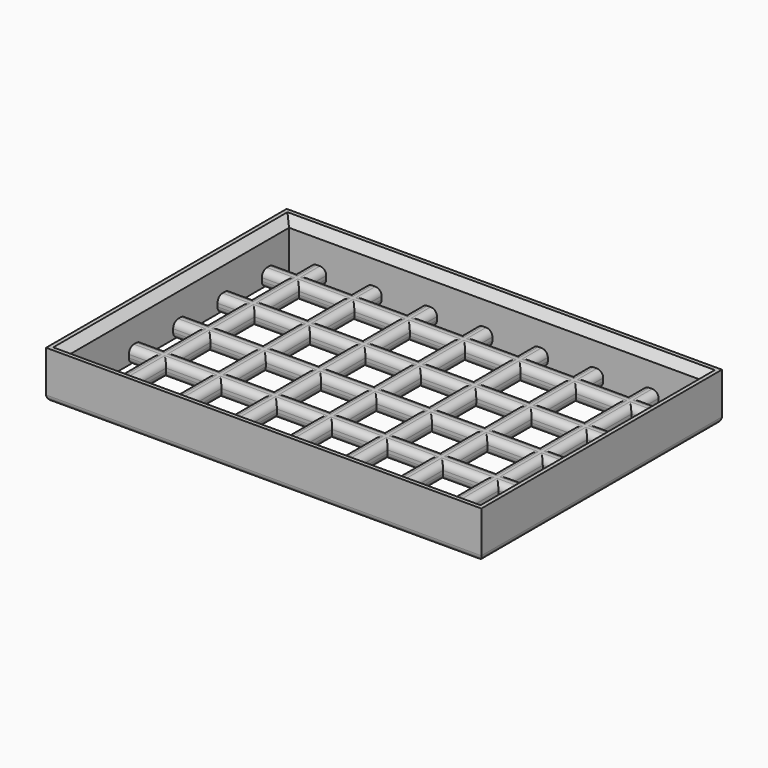
from build123d import *

# Parameters (mm, degrees)
F0_W     = 55
F0_H     = 38
F1_DEPTH = 2
F2_W     = 5
F2_H     = 5
F2_W_2   = 4.15
F3_DEPTH = 2.001
F5_R     = 0.8
F4_W     = 55
F4_H     = 38
F4_W_2   = 52
F4_H_2   = 35
F6_DEPTH = 6
F7_R     = 0.75
F8_SIZE  = 1


with BuildPart() as f1:
    # F0 (on Top) → F1 (new body)
    with BuildSketch(Plane.XY):
        with Locations((27.5, 19)):
            Rectangle(F0_W, F0_H)
    extrude(amount=-F1_DEPTH)

    # F2 (on face) → F3 (cut, through all)
    with BuildSketch(Plane.XY):
        with Locations((1.7, 36.7)):
            Rectangle(F2_W, F2_H)
        with Locations((1.7, 29.7)):
            Rectangle(F2_W, F2_H)
        with Locations((1.7, 22.7)):
            Rectangle(F2_W, F2_H)
        with Locations((1.7, 15.7)):
            Rectangle(F2_W, F2_H)
        with Locations((1.7, 8.7)):
            Rectangle(F2_W, F2_H)
        with Locations((1.7, 1.7)):
            Rectangle(F2_W, F2_H)
        with Locations((8.7, 36.7)):
            Rectangle(F2_W, F2_H)
        with Locations((8.7, 29.7)):
            Rectangle(F2_W, F2_H)
        with Locations((8.7, 22.7)):
            Rectangle(F2_W, F2_H)
        with Locations((8.7, 15.7)):
            Rectangle(F2_W, F2_H)
        with Locations((8.7, 8.7)):
            Rectangle(F2_W, F2_H)
        with Locations((8.7, 1.7)):
            Rectangle(F2_W, F2_H)
        with Locations((15.7, 36.7)):
            Rectangle(F2_W, F2_H)
        with Locations((15.7, 29.7)):
            Rectangle(F2_W, F2_H)
        with Locations((15.7, 22.7)):
            Rectangle(F2_W, F2_H)
        with Locations((15.7, 15.7)):
            Rectangle(F2_W, F2_H)
        with Locations((15.7, 8.7)):
            Rectangle(F2_W, F2_H)
        with Locations((15.7, 1.7)):
            Rectangle(F2_W, F2_H)
        with Locations((22.7, 36.7)):
            Rectangle(F2_W, F2_H)
        with Locations((22.7, 29.7)):
            Rectangle(F2_W, F2_H)
        with Locations((22.7, 22.7)):
            Rectangle(F2_W, F2_H)
        with Locations((22.7, 15.7)):
            Rectangle(F2_W, F2_H)
        with Locations((22.7, 8.7)):
            Rectangle(F2_W, F2_H)
        with Locations((22.7, 1.7)):
            Rectangle(F2_W, F2_H)
        with Locations((29.7, 36.7)):
            Rectangle(F2_W, F2_H)
        with Locations((29.7, 29.7)):
            Rectangle(F2_W, F2_H)
        with Locations((29.7, 22.7)):
            Rectangle(F2_W, F2_H)
        with Locations((29.7, 15.7)):
            Rectangle(F2_W, F2_H)
        with Locations((29.7, 8.7)):
            Rectangle(F2_W, F2_H)
        with Locations((29.7, 1.7)):
            Rectangle(F2_W, F2_H)
        with Locations((36.7, 36.7)):
            Rectangle(F2_W, F2_H)
        with Locations((36.7, 29.7)):
            Rectangle(F2_W, F2_H)
        with Locations((36.7, 22.7)):
            Rectangle(F2_W, F2_H)
        with Locations((36.7, 15.7)):
            Rectangle(F2_W, F2_H)
        with Locations((36.7, 8.7)):
            Rectangle(F2_W, F2_H)
        with Locations((36.7, 1.7)):
            Rectangle(F2_W, F2_H)
        with Locations((43.7, 36.7)):
            Rectangle(F2_W, F2_H)
        with Locations((43.7, 29.7)):
            Rectangle(F2_W, F2_H)
        with Locations((43.7, 22.7)):
            Rectangle(F2_W, F2_H)
        with Locations((43.7, 15.7)):
            Rectangle(F2_W, F2_H)
        with Locations((43.7, 8.7)):
            Rectangle(F2_W, F2_H)
        with Locations((43.7, 1.7)):
            Rectangle(F2_W, F2_H)
        with Locations((50.7, 36.7)):
            Rectangle(F2_W, F2_H)
        with Locations((55.275, 36.7)):
            Rectangle(F2_W_2, F2_H)
        with Locations((50.7, 29.7)):
            Rectangle(F2_W, F2_H)
        with Locations((55.275, 29.7)):
            Rectangle(F2_W_2, F2_H)
        with Locations((50.7, 22.7)):
            Rectangle(F2_W, F2_H)
        with Locations((55.275, 22.7)):
            Rectangle(F2_W_2, F2_H)
        with Locations((50.7, 15.7)):
            Rectangle(F2_W, F2_H)
        with Locations((55.275, 15.7)):
            Rectangle(F2_W_2, F2_H)
        with Locations((50.7, 8.7)):
            Rectangle(F2_W, F2_H)
        with Locations((55.275, 8.7)):
            Rectangle(F2_W_2, F2_H)
        with Locations((50.7, 1.7)):
            Rectangle(F2_W, F2_H)
        with Locations((55.275, 1.7)):
            Rectangle(F2_W_2, F2_H)
    extrude(amount=-F3_DEPTH, mode=Mode.SUBTRACT)

    # F5
    f5_edges = [f1.edges().sort_by_distance(p)[0] for p in [
        (48.2, 36.1, 0),
        (51.6, 34.2, 0),
        (55, 33.2, 0),
        (51.6, 32.2, 0),
        (48.2, 29.7, 0),
        (51.6, 27.2, 0),
        (55, 26.2, 0),
        (51.6, 25.2, 0),
        (48.2, 22.7, 0),
        (51.6, 20.2, 0),
        (55, 19.2, 0),
        (51.6, 18.2, 0),
        (48.2, 15.7, 0),
        (51.6, 13.2, 0),
        (55, 12.2, 0),
        (51.6, 11.2, 0),
        (48.2, 8.7, 0),
        (51.6, 6.2, 0),
        (55, 5.2, 0),
        (51.6, 4.2, 0),
        (48.2, 2.1, 0),
        (47.2, 0, 0),
        (46.2, 2.1, 0),
        (43.7, 4.2, 0),
        (41.2, 2.1, 0),
        (40.2, 0, 0),
        (39.2, 2.1, 0),
        (36.7, 4.2, 0),
        (34.2, 2.1, 0),
        (33.2, 0, 0),
        (32.2, 2.1, 0),
        (29.7, 4.2, 0),
        (27.2, 2.1, 0),
        (26.2, 0, 0),
        (25.2, 2.1, 0),
        (22.7, 4.2, 0),
        (20.2, 2.1, 0),
        (19.2, 0, 0),
        (18.2, 2.1, 0),
        (15.7, 4.2, 0),
        (13.2, 2.1, 0),
        (12.2, 0, 0),
        (11.2, 2.1, 0),
        (8.7, 4.2, 0),
        (6.2, 2.1, 0),
        (5.2, 0, 0),
        (4.2, 2.1, 0),
        (2.1, 4.2, 0),
        (0, 5.2, 0),
        (2.1, 6.2, 0),
        (4.2, 8.7, 0),
        (2.1, 11.2, 0),
        (0, 12.2, 0),
        (2.1, 13.2, 0),
        (4.2, 15.7, 0),
        (2.1, 18.2, 0),
        (0, 19.2, 0),
        (2.1, 20.2, 0),
        (4.2, 22.7, 0),
        (2.1, 25.2, 0),
        (0, 26.2, 0),
        (2.1, 27.2, 0),
        (4.2, 29.7, 0),
        (2.1, 32.2, 0),
        (0, 33.2, 0),
        (2.1, 34.2, 0),
        (4.2, 36.1, 0),
        (5.2, 38, 0),
        (6.2, 36.1, 0),
        (8.7, 34.2, 0),
        (11.2, 36.1, 0),
        (12.2, 38, 0),
        (13.2, 36.1, 0),
        (15.7, 34.2, 0),
        (18.2, 36.1, 0),
        (19.2, 38, 0),
        (20.2, 36.1, 0),
        (22.7, 34.2, 0),
        (25.2, 36.1, 0),
        (26.2, 38, 0),
        (27.2, 36.1, 0),
        (29.7, 34.2, 0),
        (32.2, 36.1, 0),
        (33.2, 38, 0),
        (34.2, 36.1, 0),
        (36.7, 34.2, 0),
        (39.2, 36.1, 0),
        (40.2, 38, 0),
        (41.2, 36.1, 0),
        (43.7, 34.2, 0),
        (46.2, 36.1, 0),
        (47.2, 38, 0),
        (8.7, 11.2, 0),
        (6.2, 8.7, 0),
        (8.7, 6.2, 0),
        (11.2, 8.7, 0),
        (15.7, 11.2, 0),
        (13.2, 8.7, 0),
        (15.7, 6.2, 0),
        (18.2, 8.7, 0),
        (22.7, 11.2, 0),
        (20.2, 8.7, 0),
        (22.7, 6.2, 0),
        (25.2, 8.7, 0),
        (8.7, 18.2, 0),
        (6.2, 15.7, 0),
        (8.7, 13.2, 0),
        (11.2, 15.7, 0),
        (15.7, 18.2, 0),
        (13.2, 15.7, 0),
        (15.7, 13.2, 0),
        (18.2, 15.7, 0),
        (22.7, 18.2, 0),
        (20.2, 15.7, 0),
        (22.7, 13.2, 0),
        (25.2, 15.7, 0),
        (29.7, 11.2, 0),
        (27.2, 8.7, 0),
        (29.7, 6.2, 0),
        (32.2, 8.7, 0),
        (36.7, 11.2, 0),
        (34.2, 8.7, 0),
        (36.7, 6.2, 0),
        (39.2, 8.7, 0),
        (43.7, 11.2, 0),
        (41.2, 8.7, 0),
        (43.7, 6.2, 0),
        (46.2, 8.7, 0),
        (29.7, 18.2, 0),
        (27.2, 15.7, 0),
        (29.7, 13.2, 0),
        (32.2, 15.7, 0),
        (36.7, 18.2, 0),
        (34.2, 15.7, 0),
        (36.7, 13.2, 0),
        (39.2, 15.7, 0),
        (43.7, 18.2, 0),
        (41.2, 15.7, 0),
        (43.7, 13.2, 0),
        (46.2, 15.7, 0),
        (8.7, 25.2, 0),
        (6.2, 22.7, 0),
        (8.7, 20.2, 0),
        (11.2, 22.7, 0),
        (15.7, 25.2, 0),
        (13.2, 22.7, 0),
        (15.7, 20.2, 0),
        (18.2, 22.7, 0),
        (22.7, 25.2, 0),
        (20.2, 22.7, 0),
        (22.7, 20.2, 0),
        (25.2, 22.7, 0),
        (8.7, 32.2, 0),
        (6.2, 29.7, 0),
        (8.7, 27.2, 0),
        (11.2, 29.7, 0),
        (15.7, 32.2, 0),
        (13.2, 29.7, 0),
        (15.7, 27.2, 0),
        (18.2, 29.7, 0),
        (22.7, 32.2, 0),
        (20.2, 29.7, 0),
        (22.7, 27.2, 0),
        (25.2, 29.7, 0),
        (29.7, 25.2, 0),
        (27.2, 22.7, 0),
        (29.7, 20.2, 0),
        (32.2, 22.7, 0),
        (36.7, 25.2, 0),
        (34.2, 22.7, 0),
        (36.7, 20.2, 0),
        (39.2, 22.7, 0),
        (43.7, 25.2, 0),
        (41.2, 22.7, 0),
        (43.7, 20.2, 0),
        (46.2, 22.7, 0),
        (29.7, 32.2, 0),
        (27.2, 29.7, 0),
        (29.7, 27.2, 0),
        (32.2, 29.7, 0),
        (36.7, 32.2, 0),
        (34.2, 29.7, 0),
        (36.7, 27.2, 0),
        (39.2, 29.7, 0),
        (43.7, 32.2, 0),
        (41.2, 29.7, 0),
        (43.7, 27.2, 0),
        (46.2, 29.7, 0),
        (48.2, 36.1, -2),
        (51.6, 34.2, -2),
        (55, 33.2, -2),
        (51.6, 32.2, -2),
        (48.2, 29.7, -2),
        (51.6, 27.2, -2),
        (55, 26.2, -2),
        (51.6, 25.2, -2),
        (48.2, 22.7, -2),
        (51.6, 20.2, -2),
        (55, 19.2, -2),
        (51.6, 18.2, -2),
        (48.2, 15.7, -2),
        (51.6, 13.2, -2),
        (55, 12.2, -2),
        (51.6, 11.2, -2),
        (48.2, 8.7, -2),
        (51.6, 6.2, -2),
        (55, 5.2, -2),
        (51.6, 4.2, -2),
        (48.2, 2.1, -2),
        (47.2, 0, -2),
        (46.2, 2.1, -2),
        (43.7, 4.2, -2),
        (41.2, 2.1, -2),
        (40.2, 0, -2),
        (39.2, 2.1, -2),
        (36.7, 4.2, -2),
        (34.2, 2.1, -2),
        (33.2, 0, -2),
        (32.2, 2.1, -2),
        (29.7, 4.2, -2),
        (27.2, 2.1, -2),
        (26.2, 0, -2),
        (25.2, 2.1, -2),
        (22.7, 4.2, -2),
        (20.2, 2.1, -2),
        (19.2, 0, -2),
        (18.2, 2.1, -2),
        (15.7, 4.2, -2),
        (13.2, 2.1, -2),
        (12.2, 0, -2),
        (11.2, 2.1, -2),
        (8.7, 4.2, -2),
        (6.2, 2.1, -2),
        (5.2, 0, -2),
        (4.2, 2.1, -2),
        (2.1, 4.2, -2),
        (0, 5.2, -2),
        (2.1, 6.2, -2),
        (4.2, 8.7, -2),
        (2.1, 11.2, -2),
        (0, 12.2, -2),
        (2.1, 13.2, -2),
        (4.2, 15.7, -2),
        (2.1, 18.2, -2),
        (0, 19.2, -2),
        (2.1, 20.2, -2),
        (4.2, 22.7, -2),
        (2.1, 25.2, -2),
        (0, 26.2, -2),
        (2.1, 27.2, -2),
        (4.2, 29.7, -2),
        (2.1, 32.2, -2),
        (0, 33.2, -2),
        (2.1, 34.2, -2),
        (4.2, 36.1, -2),
        (5.2, 38, -2),
        (6.2, 36.1, -2),
        (8.7, 34.2, -2),
        (11.2, 36.1, -2),
        (12.2, 38, -2),
        (13.2, 36.1, -2),
        (15.7, 34.2, -2),
        (18.2, 36.1, -2),
        (19.2, 38, -2),
        (20.2, 36.1, -2),
        (22.7, 34.2, -2),
        (25.2, 36.1, -2),
        (26.2, 38, -2),
        (27.2, 36.1, -2),
        (29.7, 34.2, -2),
        (32.2, 36.1, -2),
        (33.2, 38, -2),
        (34.2, 36.1, -2),
        (36.7, 34.2, -2),
        (39.2, 36.1, -2),
        (40.2, 38, -2),
        (41.2, 36.1, -2),
        (43.7, 34.2, -2),
        (46.2, 36.1, -2),
        (47.2, 38, -2),
        (8.7, 11.2, -2),
        (6.2, 8.7, -2),
        (8.7, 6.2, -2),
        (11.2, 8.7, -2),
        (15.7, 11.2, -2),
        (13.2, 8.7, -2),
        (15.7, 6.2, -2),
        (18.2, 8.7, -2),
        (22.7, 11.2, -2),
        (20.2, 8.7, -2),
        (22.7, 6.2, -2),
        (25.2, 8.7, -2),
        (8.7, 18.2, -2),
        (6.2, 15.7, -2),
        (8.7, 13.2, -2),
        (11.2, 15.7, -2),
        (15.7, 18.2, -2),
        (13.2, 15.7, -2),
        (15.7, 13.2, -2),
        (18.2, 15.7, -2),
        (22.7, 18.2, -2),
        (20.2, 15.7, -2),
        (22.7, 13.2, -2),
        (25.2, 15.7, -2),
        (29.7, 11.2, -2),
        (27.2, 8.7, -2),
        (29.7, 6.2, -2),
        (32.2, 8.7, -2),
        (36.7, 11.2, -2),
        (34.2, 8.7, -2),
        (36.7, 6.2, -2),
        (39.2, 8.7, -2),
        (43.7, 11.2, -2),
        (41.2, 8.7, -2),
        (43.7, 6.2, -2),
        (46.2, 8.7, -2),
        (29.7, 18.2, -2),
        (27.2, 15.7, -2),
        (29.7, 13.2, -2),
        (32.2, 15.7, -2),
        (36.7, 18.2, -2),
        (34.2, 15.7, -2),
        (36.7, 13.2, -2),
        (39.2, 15.7, -2),
        (43.7, 18.2, -2),
        (41.2, 15.7, -2),
        (43.7, 13.2, -2),
        (46.2, 15.7, -2),
        (8.7, 25.2, -2),
        (6.2, 22.7, -2),
        (8.7, 20.2, -2),
        (11.2, 22.7, -2),
        (15.7, 25.2, -2),
        (13.2, 22.7, -2),
        (15.7, 20.2, -2),
        (18.2, 22.7, -2),
        (22.7, 25.2, -2),
        (20.2, 22.7, -2),
        (22.7, 20.2, -2),
        (25.2, 22.7, -2),
        (8.7, 32.2, -2),
        (6.2, 29.7, -2),
        (8.7, 27.2, -2),
        (11.2, 29.7, -2),
        (15.7, 32.2, -2),
        (13.2, 29.7, -2),
        (15.7, 27.2, -2),
        (18.2, 29.7, -2),
        (22.7, 32.2, -2),
        (20.2, 29.7, -2),
        (22.7, 27.2, -2),
        (25.2, 29.7, -2),
        (29.7, 25.2, -2),
        (27.2, 22.7, -2),
        (29.7, 20.2, -2),
        (32.2, 22.7, -2),
        (36.7, 25.2, -2),
        (34.2, 22.7, -2),
        (36.7, 20.2, -2),
        (39.2, 22.7, -2),
        (43.7, 25.2, -2),
        (41.2, 22.7, -2),
        (43.7, 20.2, -2),
        (46.2, 22.7, -2),
        (29.7, 32.2, -2),
        (27.2, 29.7, -2),
        (29.7, 27.2, -2),
        (32.2, 29.7, -2),
        (36.7, 32.2, -2),
        (34.2, 29.7, -2),
        (36.7, 27.2, -2),
        (39.2, 29.7, -2),
        (43.7, 32.2, -2),
        (41.2, 29.7, -2),
        (43.7, 27.2, -2),
        (46.2, 29.7, -2),
    ]]
    fillet(f5_edges, radius=F5_R)

    # F4 (on face) → F6 (join)
    with BuildSketch(Plane(origin=(0, 0, -2), x_dir=(1, 0, 0), z_dir=(0, 0, -1))):
        with Locations((27.5, -19)):
            Rectangle(F4_W, F4_H)
        with Locations((27.5, -19)):
            Rectangle(F4_W_2, F4_H_2, mode=Mode.SUBTRACT)
    extrude(amount=-F6_DEPTH)

    # F7
    f7_edges = [f1.edges().sort_by_distance(p)[0] for p in [
        (0, 19, -2),
        (27.5, 0, -2),
        (55, 19, -2),
        (27.5, 38, -2),
    ]]
    fillet(f7_edges, radius=F7_R)

    # F8
    f8_edges = [f1.edges().sort_by_distance(p)[0] for p in [
        (27.5, 36.5, 4),
        (1.5, 19, 4),
        (27.5, 1.5, 4),
        (53.5, 19, 4),
    ]]
    chamfer(f8_edges, length=F8_SIZE)


solid = f1.part
